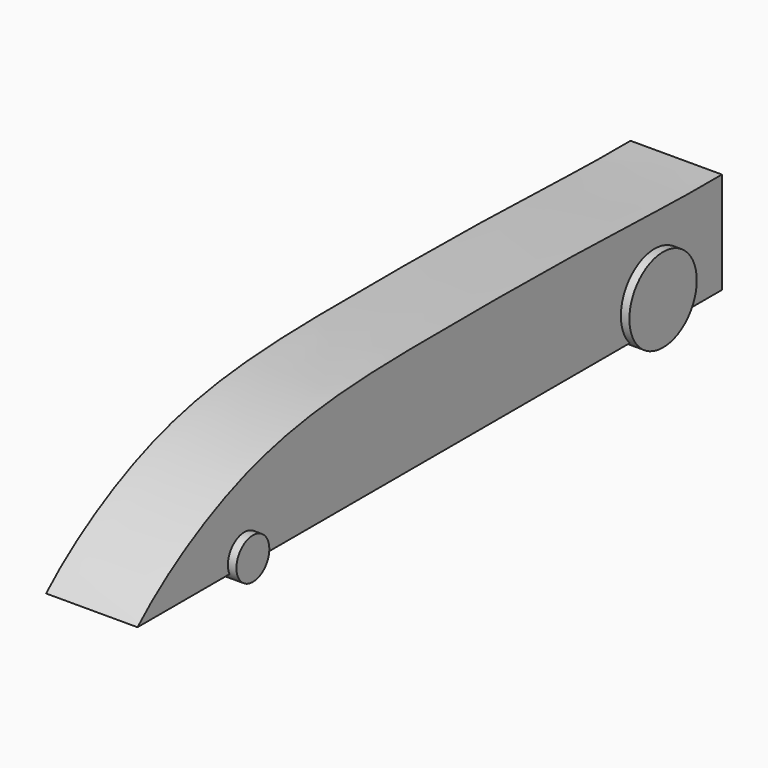
from build123d import *

# Parameters (mm, degrees)
F1_DEPTH = 19.05
F3_R     = 6.2382678549
F4_DEPTH = 30.988
F6_R     = 4.2841915503
F7_DEPTH = 1.524
F6_R_2   = 8.7731275046
F8_DEPTH = 22.86


with BuildPart() as f1:
    # F0 (on Right) → F1 (new body)
    with BuildSketch(Plane.YZ):
        with BuildLine():
            add(Edge.make_bspline(
                [(-76.2317553163, 0), (-69.5952960879, 6.3280747123), (-45.5129625615, 21.6339532101), (-0.3411145183, 22.3184860208), (35.2910162242, 22.1785555019), (60.592190821, 21.3033350883), (68.2554357349, 21.1202997935), (75.990460813, 21.1709290743)],
                knots=[0, 0, 0, 0, 0.2147331909, 0.4604411673, 0.6802066075, 0.8538054631, 1, 1, 1, 1], degree=3))
            Line((-76.2317553163, 0), (75.990460813, 0))
            Line((75.990460813, 0), (75.990460813, 21.1709290743))
        make_face()
    extrude(amount=F1_DEPTH)

    # F3 (on offset) → F4 (cut)
    with BuildSketch(Plane.XZ.offset(-85.598)):
        with Locations((9.1801350936, 13.2540538907)):
            Circle(F3_R)
    extrude(amount=F4_DEPTH, mode=Mode.SUBTRACT)


with BuildPart() as f7:
    # F6 (on offset) → F7 (new body)
    with BuildSketch(Plane.YZ.offset(19.304)):
        with Locations((-48.4031774104, 1.8587660743)):
            Circle(F6_R)
    extrude(amount=F7_DEPTH)


with BuildPart() as f7b:
    # F6 (on offset) → F7, piece 2 (new body)
    with BuildSketch(Plane.YZ.offset(19.304)):
        with Locations((58.4376677871, 5.917571485)):
            Circle(F6_R_2)
    extrude(amount=F7_DEPTH)


with BuildPart() as f8:
    # F8 (new): a face of the model
    f8_faces = [f7.part.faces().sort_by_distance(p)[0] for p in [
        (20.828, -48.4031774104, 1.8587660743),
    ]]
    extrude(f8_faces, amount=-F8_DEPTH)


with BuildPart() as f8b:
    # F8#2 (new): a face of the model
    f8_2_faces = [f7b.part.faces().sort_by_distance(p)[0] for p in [
        (20.828, 58.4376677871, 5.917571485),
    ]]
    extrude(f8_2_faces, amount=-F8_DEPTH)


solid = Compound([f1.part, f7.part, f7b.part, f8.part, f8b.part])
